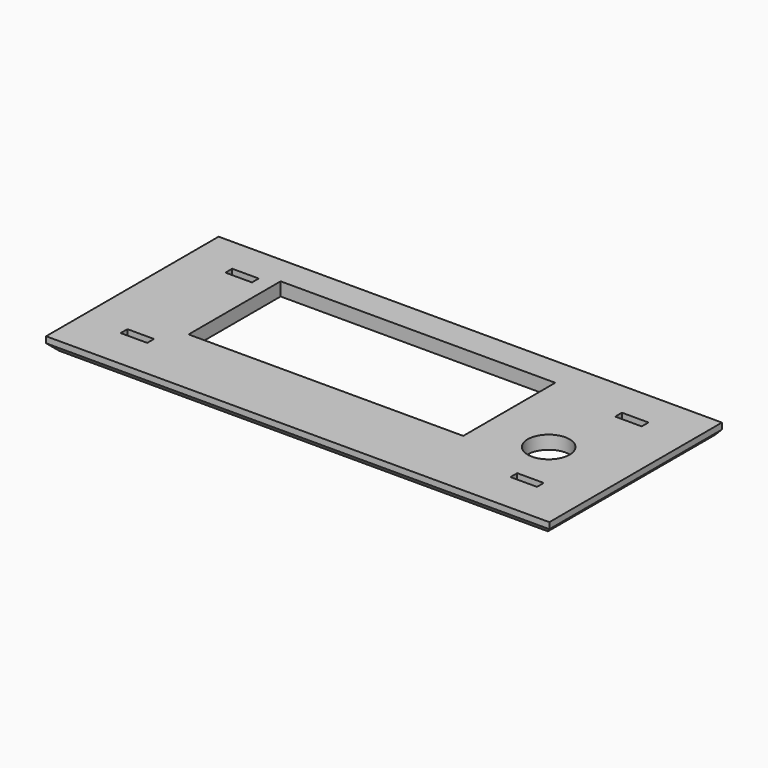
from build123d import *

# Parameters (mm, degrees)
F0_W     = 177.8
F0_H     = 76.2
F0_W_2   = 97.028
F0_H_2   = 40.64
F1_DEPTH = 4.7244
F2_R     = 7.4041
F3_DEPTH = 25.4
F4_SIZE  = 2.54
F5_W     = 9.382727
F5_H     = 2.9972
F6_DEPTH = 25.4


with BuildPart() as f1:
    # F0 (on Top) → F1 (new body)
    with BuildSketch(Plane.XY):
        with Locations((88.9, 35.43033)):
            Rectangle(F0_W, F0_H)
        with Locations((78.5368, 43.05033)):
            Rectangle(F0_W_2, F0_H_2, mode=Mode.SUBTRACT)
    extrude(amount=F1_DEPTH)

    # F2 (on face) → F3 (cut)
    with BuildSketch(Plane.XY.offset(4.7244)):
        with Locations((149.5933, 32.281343)):
            Circle(F2_R)
    extrude(amount=-F3_DEPTH, mode=Mode.SUBTRACT)

    # F4
    f4_edges = [f1.edges().sort_by_distance(p)[0] for p in [
        (0, 35.43033, 0),
        (88.9, -2.66967, 0),
        (177.8, 35.43033, 0),
    ]]
    chamfer(f4_edges, length=F4_SIZE)

    # F5 (on face) → F6 (cut)
    with BuildSketch(Plane(origin=(0, 0, 0), x_dir=(1, 0, 0), z_dir=(0, 0, -1))):
        with Locations((19.575764, -13.15453)):
            Rectangle(F5_W, F5_H)
        with Locations((19.575764, -59.40793)):
            Rectangle(F5_W, F5_H)
        with Locations((157.269163, -13.15453)):
            Rectangle(F5_W, F5_H)
        with Locations((157.269163, -59.40793)):
            Rectangle(F5_W, F5_H)
    extrude(amount=-F6_DEPTH, mode=Mode.SUBTRACT)


solid = f1.part
